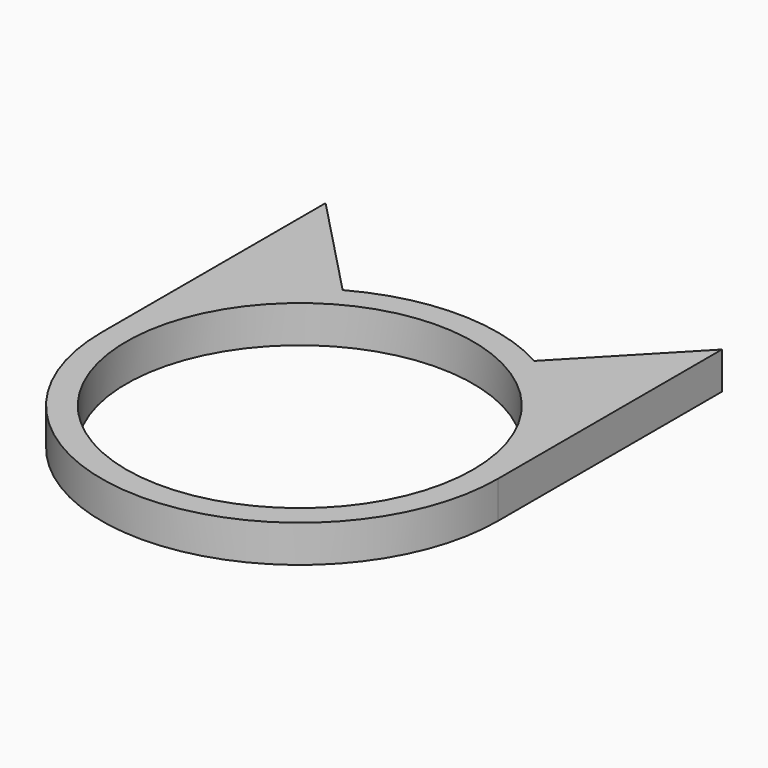
from build123d import *

# Parameters (mm, degrees)
F0_R     = 7
F1_DEPTH = 1.5


with BuildPart() as f1:
    # F0 (on Top) → F1 (new body)
    with BuildSketch(Plane.XY):
        with BuildLine():
            ThreePointArc((-8, 0), (0, -8), (8, 0))
            ThreePointArc((8, 0), (6.890506, 4.064594), (3.869769, 7.001777))
            ThreePointArc((3.869769, 7.001777), (0, 8), (-3.869769, 7.001777))
            ThreePointArc((-3.869769, 7.001777), (-6.890506, 4.064594), (-8, 0))
        make_face()
        Circle(F0_R, mode=Mode.SUBTRACT)
        with BuildLine():
            ThreePointArc((3.869769, 7.001777), (6.890506, 4.064594), (8, 0))
            Line((8, 0), (8, 11.303381))
            Line((8, 11.303381), (3.869769, 7.001777))
        make_face()
        with BuildLine():
            Line((-8, 11.303381), (-8, 0))
            ThreePointArc((-8, 0), (-6.890506, 4.064594), (-3.869769, 7.001777))
            Line((-3.869769, 7.001777), (-8, 11.303381))
        make_face()
    extrude(amount=F1_DEPTH)


solid = f1.part
